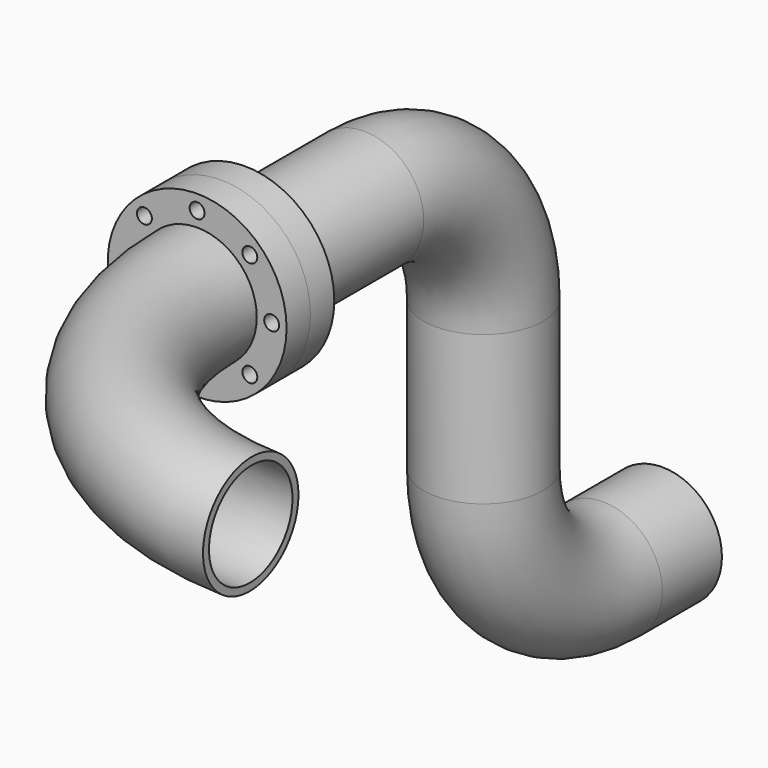
from build123d import *

# Parameters (mm, degrees)
F0_R     = 60
F0_R_2   = 5
F0_R_3   = 35
F1_DEPTH = 20
F2_DEPTH = 20
F3_R     = 40
F5_R     = 35
F7_R     = 40
F7_R_2   = 35
F8_ANGLE = 90


with BuildPart() as f1:
    # F0 (on Front) → F1 (new body)
    with BuildSketch(Plane.XZ):
        Circle(F0_R)
        with Locations((-35.3553390593, -35.3553390593)):
            Circle(F0_R_2, mode=Mode.SUBTRACT)
        with Locations((0, -50)):
            Circle(F0_R_2, mode=Mode.SUBTRACT)
        with Locations((35.3553390593, -35.3553390593)):
            Circle(F0_R_2, mode=Mode.SUBTRACT)
        with Locations((-50, 0)):
            Circle(F0_R_2, mode=Mode.SUBTRACT)
        with Locations((-35.3553390593, 35.3553390593)):
            Circle(F0_R_2, mode=Mode.SUBTRACT)
        Circle(F0_R_3, mode=Mode.SUBTRACT)
        with Locations((50, 0)):
            Circle(F0_R_2, mode=Mode.SUBTRACT)
        with Locations((0, 50)):
            Circle(F0_R_2, mode=Mode.SUBTRACT)
        with Locations((35.3553390593, 35.3553390593)):
            Circle(F0_R_2, mode=Mode.SUBTRACT)
    extrude(amount=F1_DEPTH)


with BuildPart() as f2:
    # F2 (new): a face of the model
    f2_faces = [f1.part.faces().sort_by_distance(p)[0] for p in [
        (-58.3029437252, -20, 0),
    ]]
    extrude(f2_faces, amount=F2_DEPTH)

    # F7 (on face) → F8 (revolve)
    with BuildSketch(Plane.XZ.offset(40)):
        Circle(F7_R)
        Circle(F7_R_2, mode=Mode.SUBTRACT)
    revolve(axis=Axis((180.4506671496, -40, 22.2410825152), (0.0188250713, 0, 0.9998227926)), revolution_arc=F8_ANGLE)


with BuildPart() as f1_1:
    add(f1.part)

    # F6: sweep along a path in F4
    with BuildLine(Plane.YZ) as f6_path:
        Line((0, 0), (100, 0))
        ThreePointArc((100, 0), (170.7106781187, -29.2893218813), (200, -100))
        Line((200, -100), (200, -200))
        ThreePointArc((200, -200), (229.2893218813, -270.7106781187), (300, -300))
        Line((300, -300), (350, -300))
    # F3 (on Front) + F5 (on Front) → F6 (sweep)
    with BuildSketch(Plane.XZ):
        Circle(F3_R)
    with BuildSketch(Plane.XZ):
        Circle(F5_R)
    sweep(path=f6_path.line)


solid = Compound([f2.part, f1_1.part])
